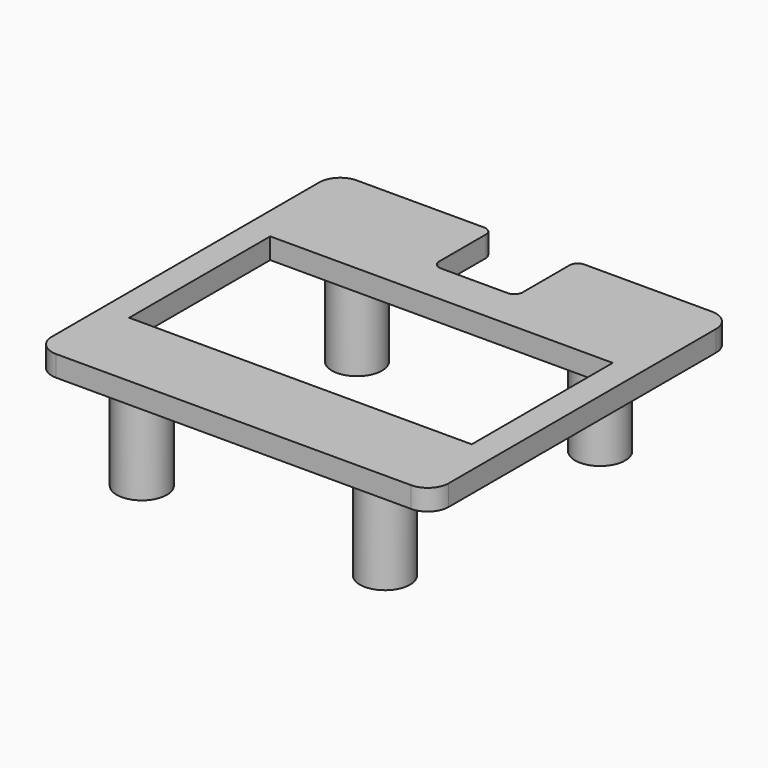
from build123d import *

# Parameters (mm, degrees)
F0_W     = 82
F0_H     = 42.2
F1_DEPTH = 5
F2_R     = 6
F3_DEPTH = 22


with BuildPart() as f1:
    # F0 (on Top) → F1 (new body)
    with BuildSketch(Plane.XY):
        with BuildLine():
            ThreePointArc((-6.5, -15), (-5.035534, -18.535534), (-1.5, -20))
            Line((-1.5, -20), (83.5, -20))
            ThreePointArc((83.5, -20), (87.035534, -18.535534), (88.5, -15))
            Line((88.5, -15), (88.5, 65))
            ThreePointArc((88.5, 65), (87.035534, 68.535534), (83.5, 70))
            Line((83.5, 70), (53, 70))
            ThreePointArc((53, 70), (51.585786, 69.414214), (51, 68))
            Line((51, 68), (51, 54))
            ThreePointArc((51, 54), (50.414214, 52.585786), (49, 52))
            Line((49, 52), (33, 52))
            ThreePointArc((33, 52), (31.585786, 52.585786), (31, 54))
            Line((31, 54), (31, 68))
            ThreePointArc((31, 68), (30.414214, 69.414214), (29, 70))
            Line((29, 70), (-1.5, 70))
            ThreePointArc((-1.5, 70), (-5.035534, 68.535534), (-6.5, 65))
            Line((-6.5, 65), (-6.5, -15))
        make_face()
        with Locations((41, 21.1)):
            Rectangle(F0_W, F0_H, mode=Mode.SUBTRACT)
    extrude(amount=F1_DEPTH)

    # F2 (on face) → F3 (join)
    with BuildSketch(Plane(origin=(0, 0, 0), x_dir=(1, 0, 0), z_dir=(0, 0, -1))):
        with Locations((70.105903, -53.295143)):
            Circle(F2_R)
        with Locations((11.894097, -53.295143)):
            Circle(F2_R)
        with Locations((70.105903, 11.095143)):
            Circle(F2_R)
        with Locations((11.894097, 11.095143)):
            Circle(F2_R)
    extrude(amount=F3_DEPTH)


solid = f1.part
